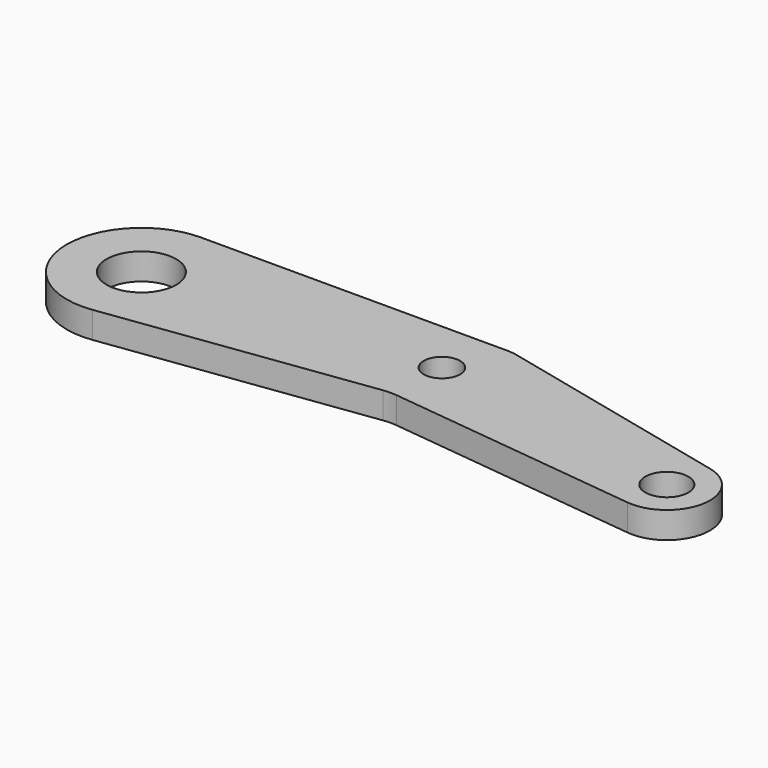
from build123d import *

# Parameters (mm, degrees)
F0_R     = 5.25
F0_R_2   = 3.25
F0_R_3   = 2.75
F1_DEPTH = 4
F2_R     = 8


with BuildPart() as f1:
    # F0 (on Top) → F1 (new body)
    with BuildSketch(Plane.XY):
        with BuildLine():
            Line((46.978489, 11.25), (0, 11.25))
            ThreePointArc((0, 11.25), (-11.224612, -0.755377), (1.507345, -11.148561))
            Line((1.507345, -11.148561), (42.089501, -5.661638))
            Line((42.089501, -5.661638), (81.481345, -10.149772))
            ThreePointArc((81.481345, -10.149772), (88.62135, -4.803506), (83.701447, 2.636708))
            Line((83.701447, 2.636708), (46.978489, 11.25))
        make_face()
        Circle(F0_R, mode=Mode.SUBTRACT)
        with Locations((82.217166, -3.691555)):
            Circle(F0_R_2, mode=Mode.SUBTRACT)
        with Locations((42.891439, 3.053603)):
            Circle(F0_R_3, mode=Mode.SUBTRACT)
    extrude(amount=F1_DEPTH)

    # F2
    f2_edges = [f1.edges().sort_by_distance(p)[0] for p in [
        (42.089501, -5.661638, 2),
        (46.978489, 11.25, 2),
    ]]
    fillet(f2_edges, radius=F2_R)


solid = f1.part
